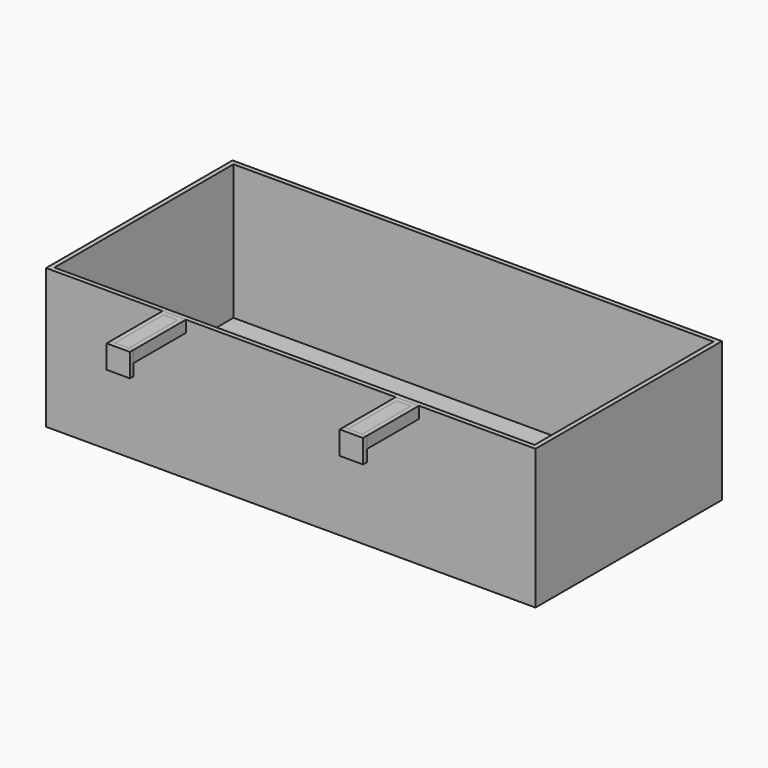
from build123d import *

# Parameters (mm, degrees)
F0_W     = 210
F0_H     = 100
F0_W_2   = 206
F0_H_2   = 96
F1_DEPTH = 2
F2_DEPTH = 60
F4_W     = 6
F4_H     = 26
F5_DEPTH = 2
F6_DEPTH = 10
F7_DEPTH = 5


with BuildPart() as f1:
    # F0 (on Top) → F1 (new body)
    with BuildSketch(Plane.XY):
        with Locations((-9.7246277332, 0.4339471459)):
            Rectangle(F0_W, F0_H)
        with Locations((-9.7246277332, 0.4339471459)):
            Rectangle(F0_W_2, F0_H_2, mode=Mode.SUBTRACT)
        with Locations((-9.7246277332, 0.4339471459)):
            Rectangle(F0_W_2, F0_H_2)
    extrude(amount=F1_DEPTH)

    # F0 (on Top) → F2 (join)
    with BuildSketch(Plane.XY):
        with Locations((-9.7246277332, 0.4339471459)):
            Rectangle(F0_W, F0_H)
        with Locations((-9.7246277332, 0.4339471459)):
            Rectangle(F0_W_2, F0_H_2, mode=Mode.SUBTRACT)
    extrude(amount=F2_DEPTH)


with BuildPart() as f5:
    # F4 (on face) → F5 (new body)
    with BuildSketch(Plane.XY.offset(60)):
        Polygon((-54.7246277332, -49.5660528541), (-64.7246277332, -49.5660528541), (-64.7246277332, -77.5660528541), (-62.7246277332, -77.5660528541), (-62.7246277332, -51.5660528541), (-56.7246277332, -51.5660528541), (-56.7246277332, -77.5660528541), (-54.7246277332, -77.5660528541), align=None)
        with Locations((-59.7246277332, -64.5660528541)):
            Rectangle(F4_W, F4_H)
        Polygon((-62.7246277332, -77.5660528541), (-64.7246277332, -77.5660528541), (-64.7246277332, -79.5660528541), (-54.7246277332, -79.5660528541), (-54.7246277332, -77.5660528541), (-56.7246277332, -77.5660528541), align=None)
    extrude(amount=-F5_DEPTH)


with BuildPart() as f5b:
    # F4 (on face) → F5, piece 2 (new body)
    with BuildSketch(Plane.XY.offset(60)):
        Polygon((37.2753722668, -77.5660528541), (35.2753722668, -77.5660528541), (35.2753722668, -79.5660528541), (45.2753722668, -79.5660528541), (45.2753722668, -77.5660528541), (43.2753722668, -77.5660528541), align=None)
        with Locations((40.2753722668, -64.5660528541)):
            Rectangle(F4_W, F4_H)
        Polygon((45.2753722668, -49.5660528541), (35.2753722668, -49.5660528541), (35.2753722668, -77.5660528541), (37.2753722668, -77.5660528541), (37.2753722668, -51.5660528541), (43.2753722668, -51.5660528541), (43.2753722668, -77.5660528541), (45.2753722668, -77.5660528541), align=None)
    extrude(amount=-F5_DEPTH)


with BuildPart() as f6:
    # F4 (on face) → F6 (new body)
    with BuildSketch(Plane.XY.offset(60)):
        Polygon((-62.7246277332, -77.5660528541), (-64.7246277332, -77.5660528541), (-64.7246277332, -79.5660528541), (-54.7246277332, -79.5660528541), (-54.7246277332, -77.5660528541), (-56.7246277332, -77.5660528541), align=None)
    extrude(amount=-F6_DEPTH)


with BuildPart() as f6b:
    # F4 (on face) → F6, piece 2 (new body)
    with BuildSketch(Plane.XY.offset(60)):
        Polygon((37.2753722668, -77.5660528541), (35.2753722668, -77.5660528541), (35.2753722668, -79.5660528541), (45.2753722668, -79.5660528541), (45.2753722668, -77.5660528541), (43.2753722668, -77.5660528541), align=None)
    extrude(amount=-F6_DEPTH)


with BuildPart() as f7:
    # F4 (on face) → F7 (new body)
    with BuildSketch(Plane.XY.offset(60)):
        Polygon((-54.7246277332, -49.5660528541), (-64.7246277332, -49.5660528541), (-64.7246277332, -77.5660528541), (-62.7246277332, -77.5660528541), (-62.7246277332, -51.5660528541), (-56.7246277332, -51.5660528541), (-56.7246277332, -77.5660528541), (-54.7246277332, -77.5660528541), align=None)
    extrude(amount=-F7_DEPTH)


with BuildPart() as f7b:
    # F4 (on face) → F7, piece 2 (new body)
    with BuildSketch(Plane.XY.offset(60)):
        Polygon((45.2753722668, -49.5660528541), (35.2753722668, -49.5660528541), (35.2753722668, -77.5660528541), (37.2753722668, -77.5660528541), (37.2753722668, -51.5660528541), (43.2753722668, -51.5660528541), (43.2753722668, -77.5660528541), (45.2753722668, -77.5660528541), align=None)
    extrude(amount=-F7_DEPTH)


solid = Compound([f1.part, f5.part, f5b.part, f6.part, f6b.part, f7.part, f7b.part])
